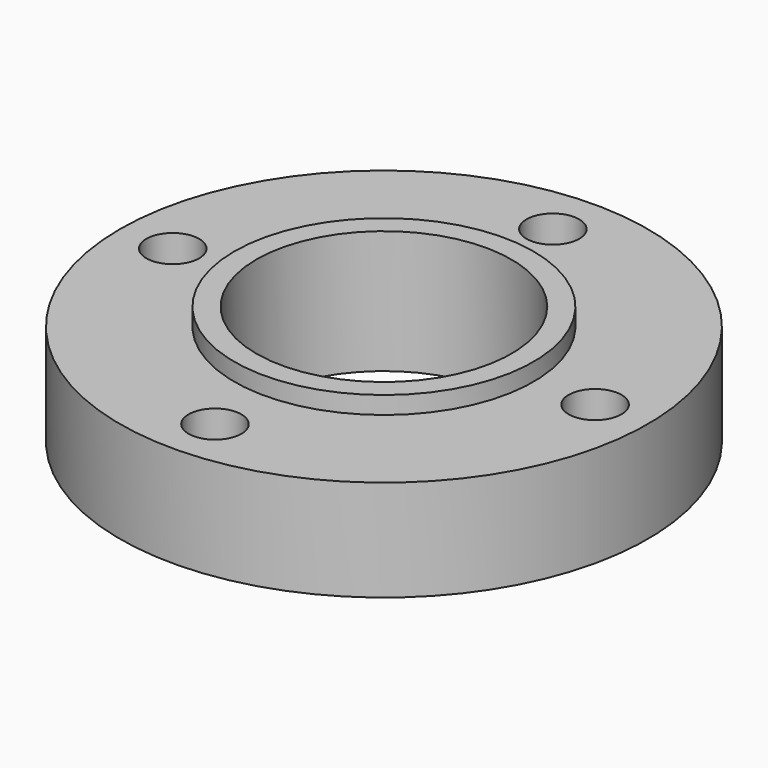
from build123d import *

# Parameters (mm, degrees)
F2_R     = 9.525
F3_DEPTH = 44.451


with BuildPart() as f1:
    # F0 (on Front) → F1 (revolve)
    with BuildSketch(Plane.XZ):
        Polygon((-63.5, 0), (-46.0375, 0), (-46.0375, 44.45), (-53.975, 44.45), (-53.975, 38.1), (-95.25, 38.1), (-95.25, 1.5875), (-63.5, 1.5875), align=None)
    revolve(axis=Axis((0, 0, 22.225), (0, 0, 1)))

    # F2 (on Top) → F3 (cut, through all)
    with BuildSketch(Plane.XY):
        with Locations((76.2, 0)):
            Circle(F2_R)
        with Locations((0, 76.2)):
            Circle(F2_R)
        with Locations((-76.2, 0)):
            Circle(F2_R)
        with Locations((0, -76.2)):
            Circle(F2_R)
    extrude(amount=F3_DEPTH, mode=Mode.SUBTRACT)


solid = f1.part
